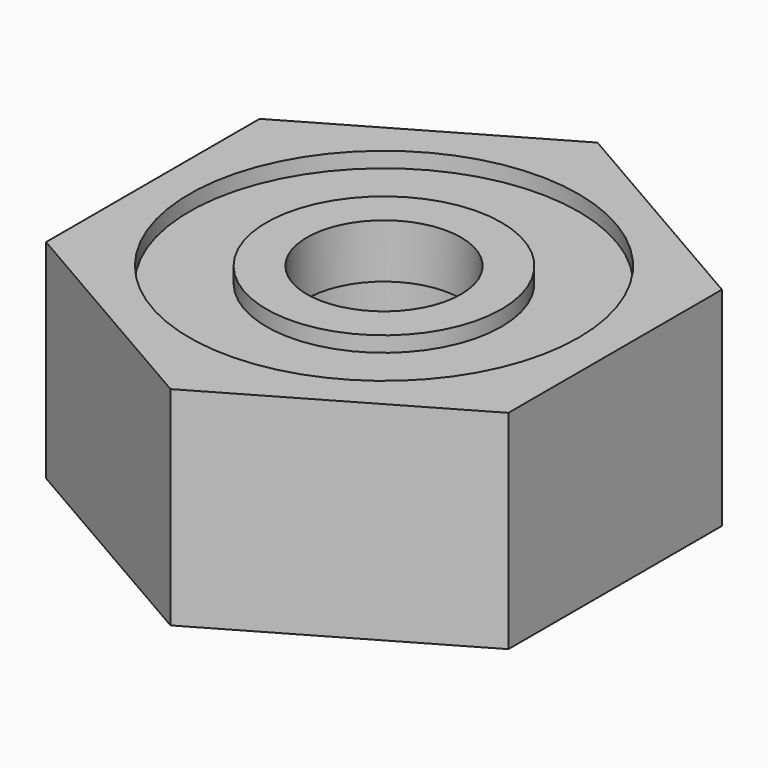
from build123d import *

# Parameters (mm, degrees)
F1_DEPTH  = 5.4
F2_R      = 5.05
F2_R_2    = 3.05
F3_DEPTH  = 0.4
F4_R      = 2
F5_DEPTH  = 5.401
F6_R      = 3.5
F6_R_2    = 2
F7_DEPTH  = 0.5
F8_R      = 2.5
F9_DEPTH  = 4.5
F11_DEPTH = 5


with BuildPart() as f1:
    # F0 (on Top) → F1 (new body)
    with BuildSketch(Plane.XY):
        Polygon((6, -3.4641016151), (6, 3.4641016151), (0, 6.9282032303), (-6, 3.4641016151), (-6, -3.4641016151), (0, -6.9282032303), align=None)
    extrude(amount=F1_DEPTH)

    # F2 (on face) → F3 (cut)
    with BuildSketch(Plane.XY.offset(5.4)):
        Circle(F2_R)
        Circle(F2_R_2, mode=Mode.SUBTRACT)
    extrude(amount=-F3_DEPTH, mode=Mode.SUBTRACT)

    # F4 (on face) → F5 (cut, through all)
    with BuildSketch(Plane.XY.offset(5.4)):
        Circle(F4_R)
    extrude(amount=-F5_DEPTH, mode=Mode.SUBTRACT)

    # F6 (on face) → F7 (join)
    with BuildSketch(Plane(origin=(0, 0, 0), x_dir=(1, 0, 0), z_dir=(0, 0, -1))):
        Circle(F6_R)
        Circle(F6_R_2, mode=Mode.SUBTRACT)
    extrude(amount=F7_DEPTH)

    # F8 (on face) → F9 (cut)
    with BuildSketch(Plane(origin=(0, 0, -0.5), x_dir=(1, 0, 0), z_dir=(0, 0, -1))):
        Circle(F8_R)
    extrude(amount=-F9_DEPTH, mode=Mode.SUBTRACT)

    # F10 (on Right) → F11 (cut, symmetric)
    with BuildSketch(Plane.YZ):
        with BuildLine():
            Line((1, -1.5), (1, 1.2))
            ThreePointArc((1, 1.2), (0, 2.2), (-1, 1.2))
            Line((-1, 1.2), (-1, -1.5))
            Line((-1, -1.5), (1, -1.5))
        make_face()
    extrude(amount=F11_DEPTH, both=True, mode=Mode.SUBTRACT)


solid = f1.part
